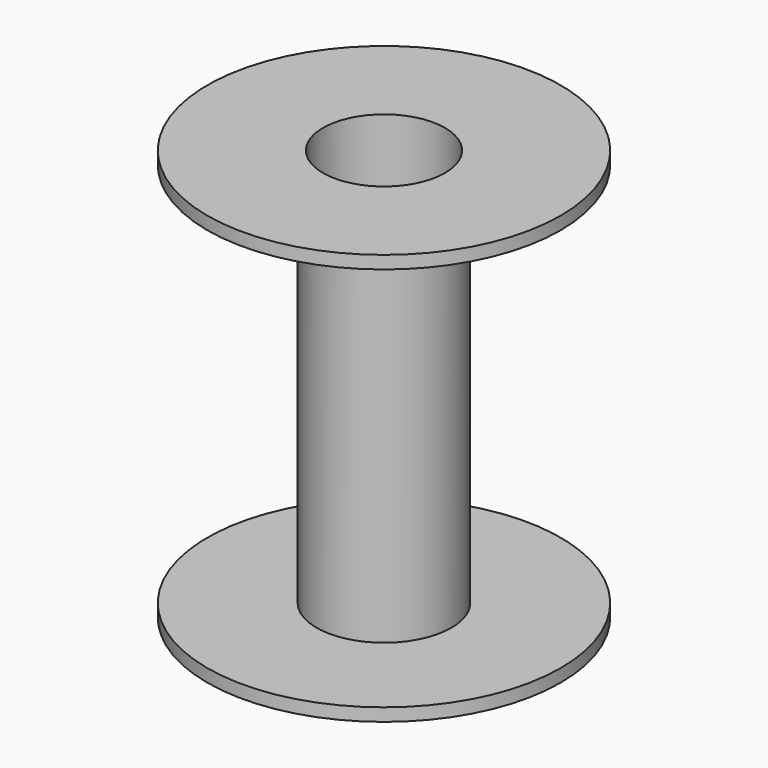
from build123d import *

# Parameters (mm, degrees)
F0_R     = 27.5
F2_DEPTH = 2
F1_R     = 10.5
F3_DEPTH = 60
F4_R     = 27.5
F5_DEPTH = 2
F6_R     = 9.5
F7_DEPTH = 64


with BuildPart() as f2:
    # F0 (on Top) → F2 (new body)
    with BuildSketch(Plane.XY):
        Circle(F0_R)
    extrude(amount=F2_DEPTH)

    # F1 (on Top) → F3 (join)
    with BuildSketch(Plane.XY):
        Circle(F1_R)
    extrude(amount=-F3_DEPTH)

    # F4 (on face) → F5 (join)
    with BuildSketch(Plane(origin=(0, 0, -60), x_dir=(1, 0, 0), z_dir=(0, 0, -1))):
        Circle(F4_R)
    extrude(amount=F5_DEPTH)

    # F6 (on face) → F7 (cut, through all)
    with BuildSketch(Plane.XY.offset(2)):
        Circle(F6_R)
    extrude(amount=-F7_DEPTH, mode=Mode.SUBTRACT)


solid = f2.part
